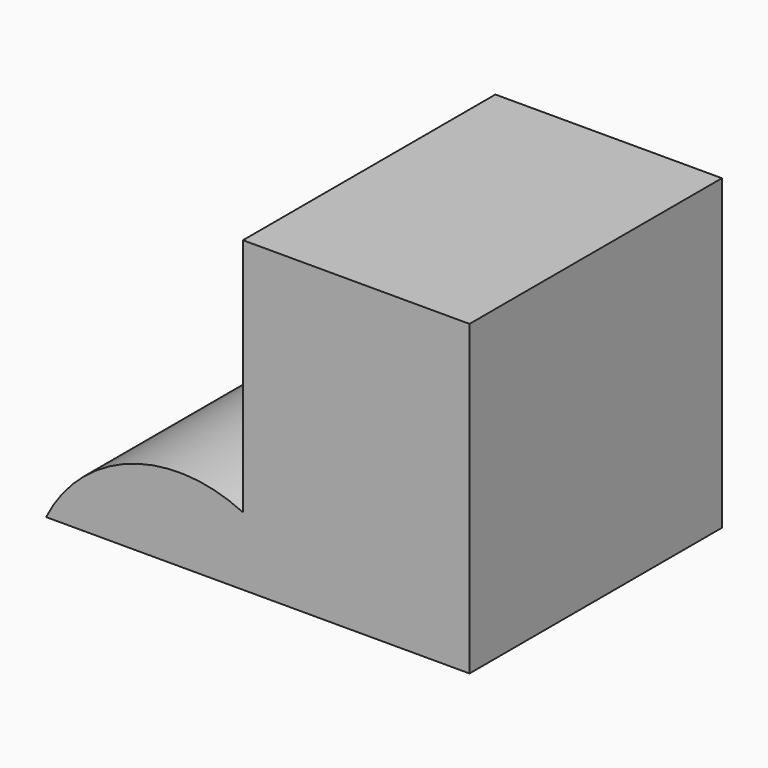
from build123d import *

# Parameters (mm, degrees)
F1_DEPTH = 50.8


with BuildPart() as f1:
    # F0 (on Front) → F1 (new body)
    with BuildSketch(Plane.XZ):
        with BuildLine():
            Line((-43.824095, 0), (0, 0))
            Line((0, 0), (24.34672, 0))
            Line((24.34672, 0), (24.34672, 49.552731))
            Line((24.34672, 49.552731), (21.673353, 49.552731))
            Line((21.673353, 49.552731), (-12.125621, 49.552731))
            Line((-12.125621, 49.552731), (-12.125621, 10.979893))
            ThreePointArc((-12.125621, 10.979893), (-30.226987, 11.991746), (-43.824095, 0))
        make_face()
    extrude(amount=F1_DEPTH)


solid = f1.part
